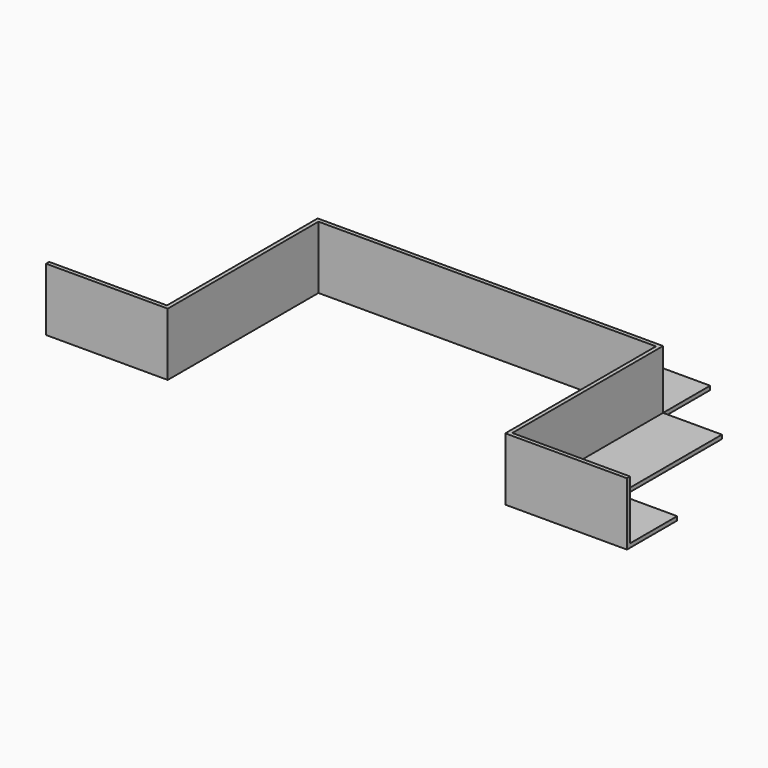
from build123d import *

# Parameters (mm, degrees)
F3_W     = 47.625
F3_H     = 47.625
F4_DEPTH = 25.4


with BuildPart() as f2:
    # F2: sweep along a path in F1
    with BuildLine(Plane.XY) as f2_path:
        Line((0, 0), (-98.425, 0))
        Line((-98.425, 0), (-98.425, 152.4))
        Line((-98.425, 152.4), (-371.475, 152.4))
        Line((-371.475, 152.4), (-371.475, 0))
        Line((-371.475, 0), (-469.9, 0))
    # F0 (on Right) → F2 (sweep)
    with BuildSketch(Plane.YZ):
        Polygon((0, 50.8), (0, 0), (50.8, 0), (50.8, 3.175), (3.175, 3.175), (3.175, 50.8), align=None)
    sweep(path=f2_path.line, transition=Transition.RIGHT)

    # F3 (on face) → F4 (cut)
    with BuildSketch(Plane.XY.offset(3.175)):
        with Locations((-398.4625, 179.3875)):
            Rectangle(F3_W, F3_H)
        with Locations((-71.4375, 179.3875)):
            Rectangle(F3_W, F3_H)
    extrude(amount=-F4_DEPTH, mode=Mode.SUBTRACT)


solid = f2.part
